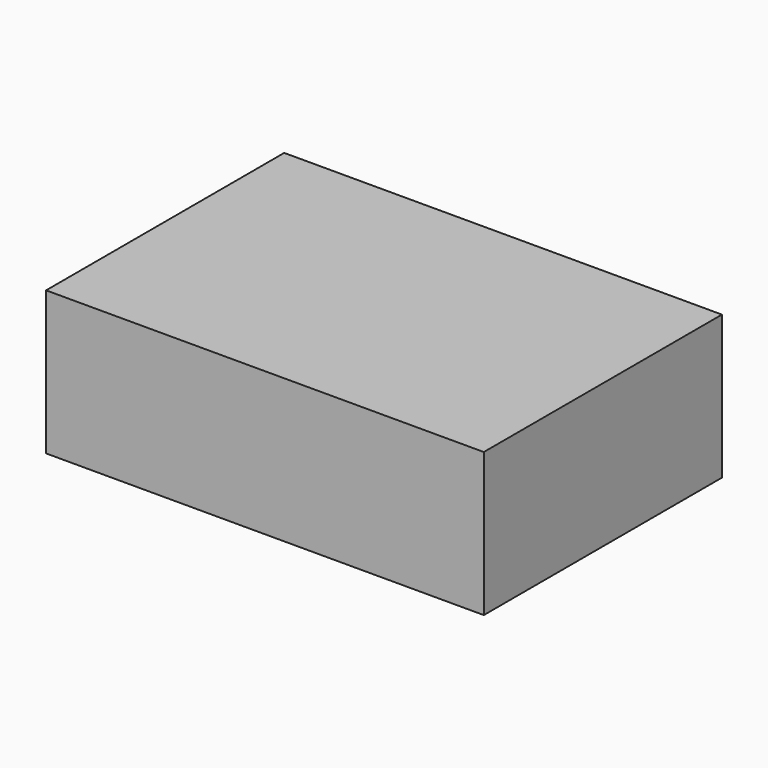
from build123d import *

# Parameters (mm, degrees)
F0_W     = 250
F0_H     = 170
F0_W_2   = 235
F0_H_2   = 150
F1_DEPTH = 3
F2_W     = 250
F2_H     = 170
F2_W_2   = 225
F2_H_2   = 135
F3_DEPTH = 82


with BuildPart() as f1:
    # F0 (on Top) → F1 (new body)
    with BuildSketch(Plane.XY):
        Rectangle(F0_W, F0_H)
        Rectangle(F0_W_2, F0_H_2, mode=Mode.SUBTRACT)
        Rectangle(F0_W_2, F0_H_2)
    extrude(amount=F1_DEPTH)

    # F2 (on face) → F3 (join)
    with BuildSketch(Plane.XY.offset(3)):
        Rectangle(F2_W, F2_H)
        Rectangle(F2_W_2, F2_H_2, mode=Mode.SUBTRACT)
    extrude(amount=-F3_DEPTH)


solid = f1.part
